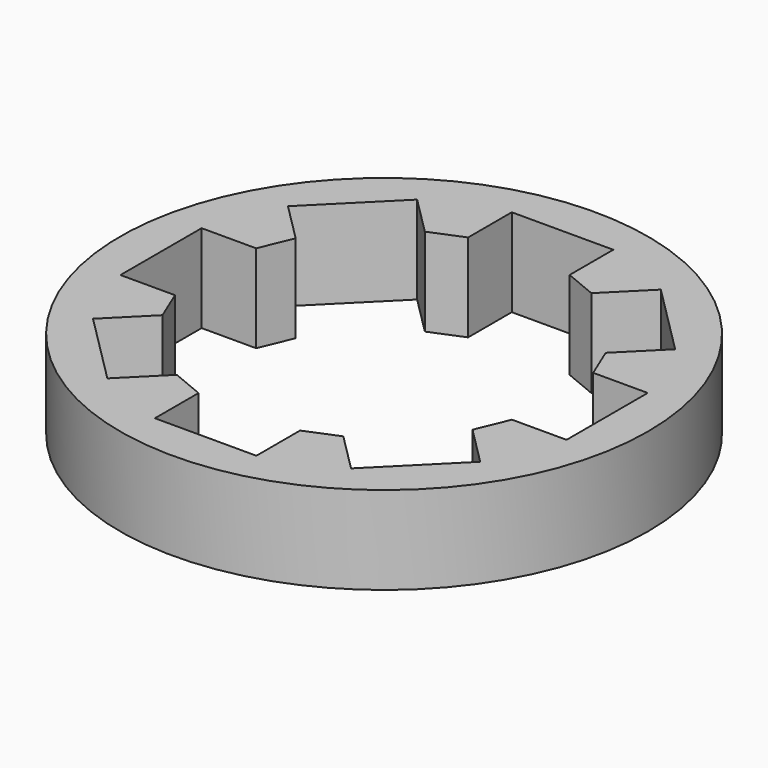
from build123d import *

# Parameters (mm, degrees)
SKETCH_R  = 15
PAD_DEPTH = 5


with BuildPart() as part:
    # Sketch → Pad (new body)
    with BuildSketch(Plane.XY):
        Circle(SKETCH_R)
        Polygon((0, 12.676114), (2.883773, 12.676114), (2.883773, 9.575169), (4.731532, 8.809802), (6.924231, 11.002501), (11.002501, 6.924231), (8.809802, 4.731532), (9.575169, 2.883773), (12.676114, 2.883773), (12.676114, 0), (12.676114, -2.883773), (9.575169, -2.883773), (8.809802, -4.731532), (11.002501, -6.924231), (6.924231, -11.002501), (4.731532, -8.809802), (2.883773, -9.575169), (2.883773, -12.676114), (0, -12.676114), (-2.883773, -12.676114), (-2.883773, -9.575169), (-4.731532, -8.809802), (-6.924231, -11.002501), (-11.002501, -6.924231), (-8.809802, -4.731532), (-9.575169, -2.883773), (-12.676114, -2.883773), (-12.676114, 0), (-12.676114, 2.883773), (-9.575169, 2.883773), (-8.809802, 4.731532), (-11.002501, 6.924231), (-6.924231, 11.002501), (-4.731532, 8.809802), (-2.883773, 9.575169), (-2.883773, 12.676114), align=None, mode=Mode.SUBTRACT)
    extrude(amount=PAD_DEPTH)


solid = part.part
